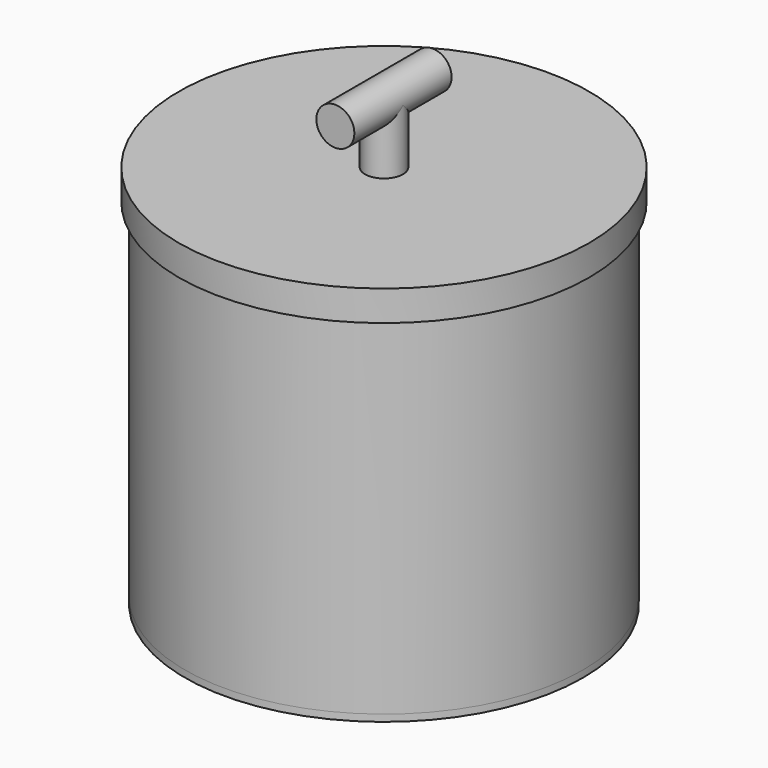
from build123d import *

# Parameters (mm, degrees)
F0_R          = 131
F0_R_2        = 127
F1_DEPTH      = 4.5
F2_R          = 131
F2_R_2        = 126
F3_DEPTH      = 228.6
F4_R          = 135
F4_R_2        = 126
F5_DEPTH      = 20
F6_R          = 12.5
F7_DEPTH      = 40
F8_R          = 12.5
F9_DEPTH      = 40
F9_DEPTH_BACK = 40


with BuildPart() as f1:
    # F0 (on Top) → F1 (new body)
    with BuildSketch(Plane.XY):
        Circle(F0_R)
        Circle(F0_R_2, mode=Mode.SUBTRACT)
        Circle(F0_R_2)
    extrude(amount=-F1_DEPTH)

    # F2 (on face) → F3 (join)
    with BuildSketch(Plane.XY):
        Circle(F2_R)
        Circle(F2_R_2, mode=Mode.SUBTRACT)
    extrude(amount=F3_DEPTH)

    # F4 (on face) → F5 (join)
    with BuildSketch(Plane.XY.offset(228.6)):
        Circle(F4_R)
        Circle(F4_R_2)
    extrude(amount=F5_DEPTH)

    # F6 (on face) → F7 (join)
    with BuildSketch(Plane.XY.offset(248.6)):
        Circle(F6_R)
    extrude(amount=F7_DEPTH)

    # F8 (on Front) → F9 (join, two sides)
    with BuildSketch(Plane.XZ) as f9_sk:
        with Locations((0, 288.6)):
            Circle(F8_R)
    extrude(amount=-F9_DEPTH)
    extrude(f9_sk.sketch, amount=F9_DEPTH_BACK)


solid = f1.part
